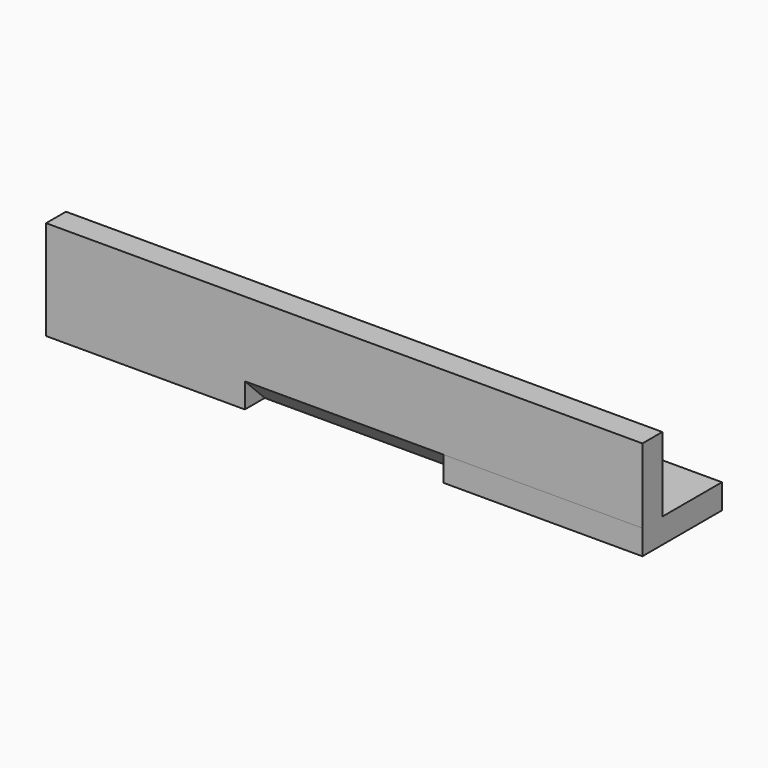
from build123d import *

# Parameters (mm, degrees)
F1_DEPTH = 152.4
F3_DEPTH = 154.432
F5_DEPTH = 50.8
F7_DEPTH = 50.8


with BuildPart() as f1:
    # F0 (on Right) → F1 (new body)
    with BuildSketch(Plane.YZ):
        Polygon((-10.171386, 0.476147), (-16.521386, 0.476147), (-16.521386, -24.923853), (8.878614, -24.923853), (8.878614, -18.573853), (-10.171386, -18.573853), align=None)
    extrude(amount=F1_DEPTH)

    # F2 (on face) → F3 (cut)
    with BuildSketch(Plane(origin=(0, 0, 0), x_dir=(0, -1, 0), z_dir=(-1, 0, 0))):
        Polygon((10.171386, -24.923853), (16.521386, -24.923853), (16.521386, -18.573853), align=None)
    extrude(amount=-F3_DEPTH, mode=Mode.SUBTRACT)

    # F4 (on face) → F5 (join)
    with BuildSketch(Plane(origin=(0, 0, 0), x_dir=(0, -1, 0), z_dir=(-1, 0, 0))):
        Polygon((16.521386, -24.923853), (16.521386, -18.573853), (10.171386, -24.923853), align=None)
    extrude(amount=-F5_DEPTH)

    # F6 (on face) → F7 (join)
    with BuildSketch(Plane.YZ.offset(152.4)):
        Polygon((-16.522156, -24.923853), (-10.171386, -24.923853), (-16.521386, -18.573853), align=None)
    extrude(amount=-F7_DEPTH)


solid = f1.part
